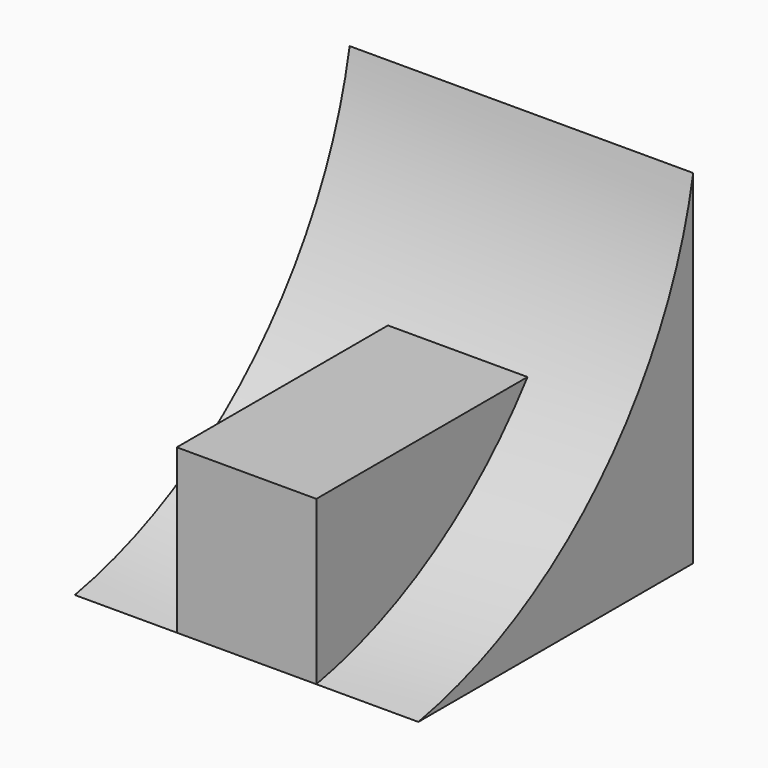
from build123d import *

# Parameters (mm, degrees)
F1_DEPTH = 50.8
F2_DEPTH = 35.71875
F3_DEPTH = 15.08125


with BuildPart() as f1:
    # F0 (on Right) → F1 (new body)
    with BuildSketch(Plane.YZ):
        with BuildLine():
            Line((-50.8, 0), (0, 0))
            Line((0, 0), (0, 24.13))
            Line((0, 24.13), (-11.7745487484, 24.13))
            ThreePointArc((-11.7745487484, 24.13), (-29.0316591308, 8.4169932564), (-50.8, 0))
        make_face()
        with BuildLine():
            Line((-11.7745487484, 24.13), (0, 24.13))
            Line((0, 24.13), (0, 50.8))
            ThreePointArc((0, 50.8), (-4.3360005943, 36.7801275312), (-11.7745487484, 24.13))
        make_face()
    extrude(amount=F1_DEPTH)

    # F0 (on Right) → F2 (join)
    with BuildSketch(Plane.YZ):
        with BuildLine():
            Line((-11.7745487484, 24.13), (0, 24.13))
            Line((0, 24.13), (0, 50.8))
            ThreePointArc((0, 50.8), (-4.3360005943, 36.7801275312), (-11.7745487484, 24.13))
        make_face()
        with BuildLine():
            Line((-50.8, 24.13), (-50.8, 0))
            ThreePointArc((-50.8, 0), (-29.0316591308, 8.4169932564), (-11.7745487484, 24.13))
            Line((-11.7745487484, 24.13), (-50.8, 24.13))
        make_face()
        with BuildLine():
            Line((-50.8, 0), (0, 0))
            Line((0, 0), (0, 24.13))
            Line((0, 24.13), (-11.7745487484, 24.13))
            ThreePointArc((-11.7745487484, 24.13), (-29.0316591308, 8.4169932564), (-50.8, 0))
        make_face()
    extrude(amount=F2_DEPTH)

    # F0 (on Right) → F3 (cut)
    with BuildSketch(Plane.YZ):
        with BuildLine():
            Line((-50.8, 24.13), (-50.8, 0))
            ThreePointArc((-50.8, 0), (-29.0316591308, 8.4169932564), (-11.7745487484, 24.13))
            Line((-11.7745487484, 24.13), (-50.8, 24.13))
        make_face()
    extrude(amount=F3_DEPTH, mode=Mode.SUBTRACT)


solid = f1.part
